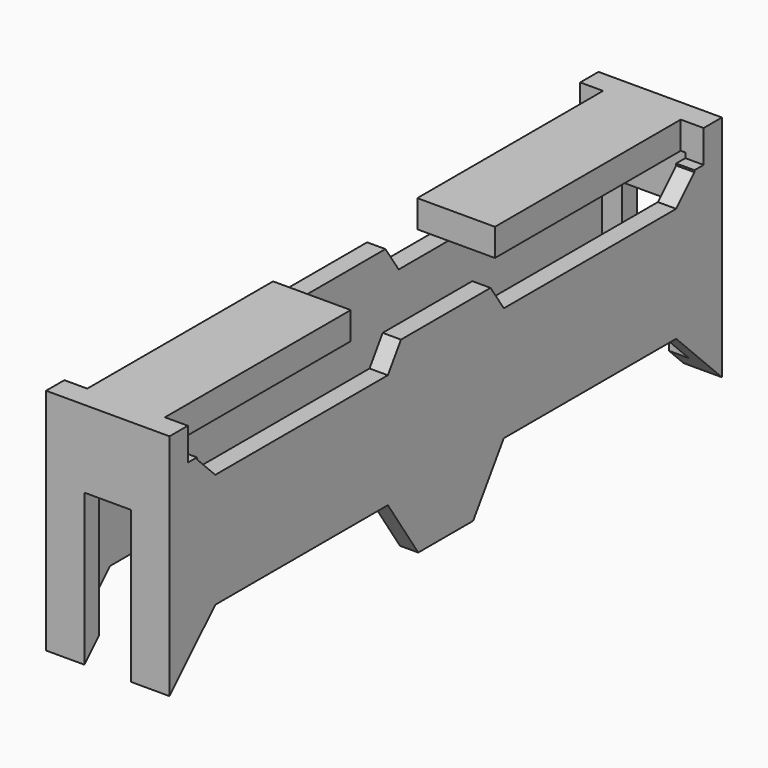
from build123d import *

# Parameters (mm, degrees)
F0_W      = 5.3958347999
F0_H      = 30.1875006407
F0_W_2    = 3.7958348403
F0_H_2    = 28.5875006812
F1_DEPTH  = 10
F4_DEPTH  = 6.7
F3_W      = 2.0448579453
F3_H      = 6.6219959408
F5_DEPTH  = 31.8
F6_DEPTH  = 6.5
F3_W_2    = 5.3958347999
F3_H_2    = 1.2
F7_DEPTH  = 6.9
F8_DEPTH  = 30.1
F10_DEPTH = 1.42
F9_W      = 3.3958347049
F9_H      = 3.9405850694
F11_DEPTH = 1.3


with BuildPart() as f1:
    # F0 (on Top) → F1 (new body)
    with BuildSketch(Plane.XY):
        with Locations((-2.6979173999, 15.0937503204)):
            Rectangle(F0_W, F0_H)
        with Locations((-2.6979173999, 15.0937503204)):
            Rectangle(F0_W_2, F0_H_2, mode=Mode.SUBTRACT)
    extrude(amount=F1_DEPTH)

    # F2 (on face) → F4 (cut)
    with BuildSketch(Plane.YZ):
        Polygon((28.6875006277, 1.500000013), (27.6875006966, 2.4999999441), (18.2672608644, 2.4999999441), (16.5937503204, 0), (30.1875006407, 0), align=None)
        Polygon((2.4999999441, 2.4999999441), (1.500000013, 1.500000013), (0, 0), (13.5937503204, 0), (11.9336228818, 2.4999999441), align=None)
    extrude(amount=-F4_DEPTH, mode=Mode.SUBTRACT)

    # F3 (on face) → F5 (cut)
    with BuildSketch(Plane(origin=(0, 30.1875006407, 0), x_dir=(-1, 0, 0), z_dir=(0, 1, 0))):
        with Locations((2.6979173999, 3.3109979704)):
            Rectangle(F3_W, F3_H)
    extrude(amount=-F5_DEPTH, mode=Mode.SUBTRACT)

    # F2 (on face) → F6 (cut)
    with BuildSketch(Plane.YZ):
        Polygon((18.2681400329, 7.5000000559), (27.6875006966, 7.5000000559), (28.6875006277, 8.499999987), (28.6875006277, 10), (16.5937503204, 10), align=None)
        Polygon((1.500000013, 10), (1.500000013, 8.499999987), (2.4999999441, 7.5000000559), (11.9306277484, 7.5000000559), (13.5937503204, 10), align=None)
    extrude(amount=-F6_DEPTH, mode=Mode.SUBTRACT)

    # F3 (on face) → F7 (join)
    with BuildSketch(Plane(origin=(0, 30.1875006407, 0), x_dir=(-1, 0, 0), z_dir=(0, 1, 0))):
        with Locations((2.6979173999, 9.4)):
            Rectangle(F3_W_2, F3_H_2)
    extrude(amount=-F7_DEPTH)

    # F3 (on face) → F8 (join)
    with BuildSketch(Plane(origin=(0, 30.1875006407, 0), x_dir=(-1, 0, 0), z_dir=(0, 1, 0))):
        with Locations((2.6979173999, 9.4)):
            Rectangle(F3_W_2, F3_H_2)
    extrude(amount=-F8_DEPTH)

    # F9 (on face) → F10 (cut)
    with BuildSketch(Plane.XY.offset(10)):
        Polygon((-5.3958347999, 1.0000000475), (-4.3958347524, 1.0000000475), (-4.3958347524, 11.153165251), (-4.3958347524, 15.0937503204), (-4.3958347524, 19.0343353897), (-4.3958347524, 29.1875005933), (-5.3958347999, 29.1875005933), align=None)
        Polygon((-1.0000000475, 11.153165251), (-1.0000000475, 1.0000000475), (0, 1.0000000475), (0, 29.1875005933), (-1.0000000475, 29.1875005933), (-1.0000000475, 19.0343353897), (-1.0000000475, 15.0937503204), align=None)
    extrude(amount=-F10_DEPTH, mode=Mode.SUBTRACT)

    # F9 (on face) → F11 (cut)
    with BuildSketch(Plane.XY.offset(10)):
        with Locations((-2.6979173999, 13.1234577857)):
            Rectangle(F9_W, F9_H)
        with Locations((-2.6979173999, 17.0640428551)):
            Rectangle(F9_W, F9_H)
    extrude(amount=-F11_DEPTH, mode=Mode.SUBTRACT)


solid = f1.part
